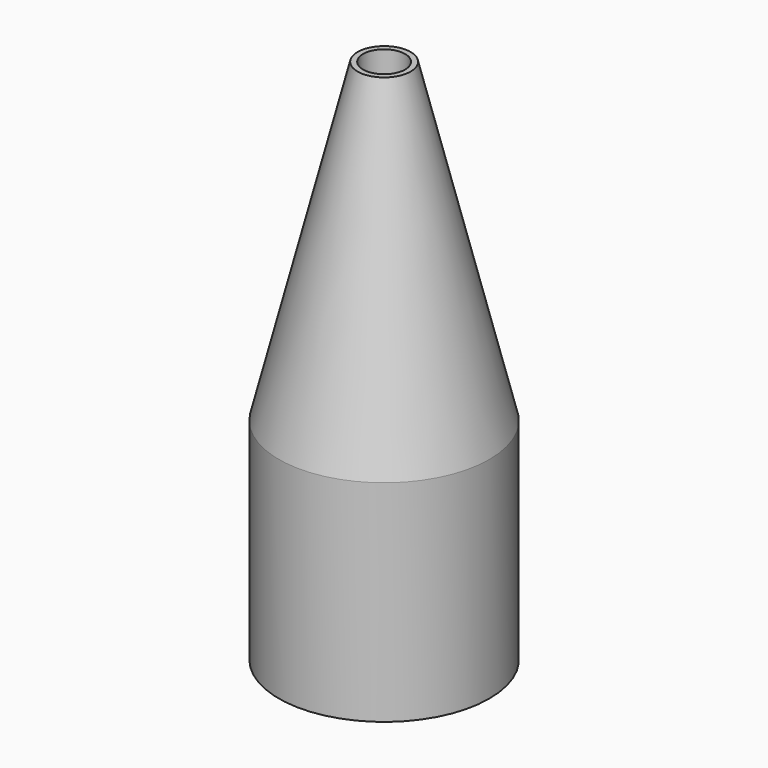
from build123d import *

# Parameters (mm, degrees)
F0_R     = 5
F0_R_2   = 3.5
F1_DEPTH = 10
F2_R     = 5
F3_DEPTH = 15
F3_TAPER = 14
F0_R_3   = 1
F4_DEPTH = 25.001


with BuildPart() as f1:
    # F0 (on Top) → F1 (new body)
    with BuildSketch(Plane.XY):
        Circle(F0_R)
        Circle(F0_R_2, mode=Mode.SUBTRACT)
    extrude(amount=F1_DEPTH)

    # F2 (on face) → F3 (join)
    with BuildSketch(Plane.XY.offset(10)):
        Circle(F2_R)
    extrude(amount=F3_DEPTH, taper=F3_TAPER)

    # F0 (on Top) → F4 (cut, through all)
    with BuildSketch(Plane.XY):
        Circle(F0_R_3)
    extrude(amount=F4_DEPTH, mode=Mode.SUBTRACT)


solid = f1.part
